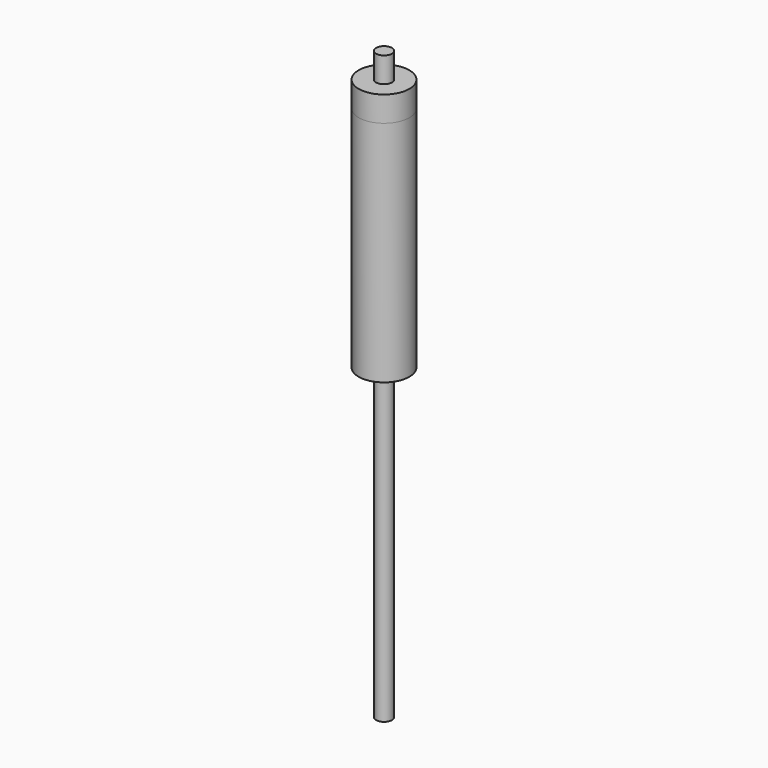
from build123d import *

# Parameters (mm, degrees)
F0_R     = 25.4
F0_R_2   = 23.8125
F1_DEPTH = 228.6
F2_R     = 25.4
F2_R_2   = 7.9375
F3_DEPTH = 25.4
F4_R     = 23.8125
F4_R_2   = 7.9375
F5_DEPTH = 12.7
F6_R     = 7.9375
F7_DEPTH = 279.4
F8_R     = 7.9375
F9_DEPTH = 308.61


with BuildPart() as f1:
    # F0 (on Top) → F1 (new body)
    with BuildSketch(Plane.XY):
        Circle(F0_R)
        Circle(F0_R_2, mode=Mode.SUBTRACT)
    extrude(amount=F1_DEPTH)


with BuildPart() as f3:
    # F2 (on face) → F3 (new body)
    with BuildSketch(Plane.XY.offset(228.6)):
        Circle(F2_R)
        Circle(F2_R_2, mode=Mode.SUBTRACT)
    extrude(amount=F3_DEPTH)


with BuildPart() as f5:
    # F4 (on Top) → F5 (new body)
    with BuildSketch(Plane.XY):
        Circle(F4_R)
        Circle(F4_R_2, mode=Mode.SUBTRACT)
    extrude(amount=F5_DEPTH)


with BuildPart() as f7:
    # F6 (on face) → F7 (new body)
    with BuildSketch(Plane(origin=(0, 0, 0), x_dir=(1, 0, 0), z_dir=(0, 0, -1))):
        Circle(F6_R)
    extrude(amount=-F7_DEPTH)


with BuildPart() as f9:
    # F8 (on face) → F9 (new body)
    with BuildSketch(Plane(origin=(0, 0, 0), x_dir=(1, 0, 0), z_dir=(0, 0, -1))):
        Circle(F8_R)
    extrude(amount=F9_DEPTH)


solid = Compound([f1.part, f3.part, f5.part, f7.part, f9.part])
